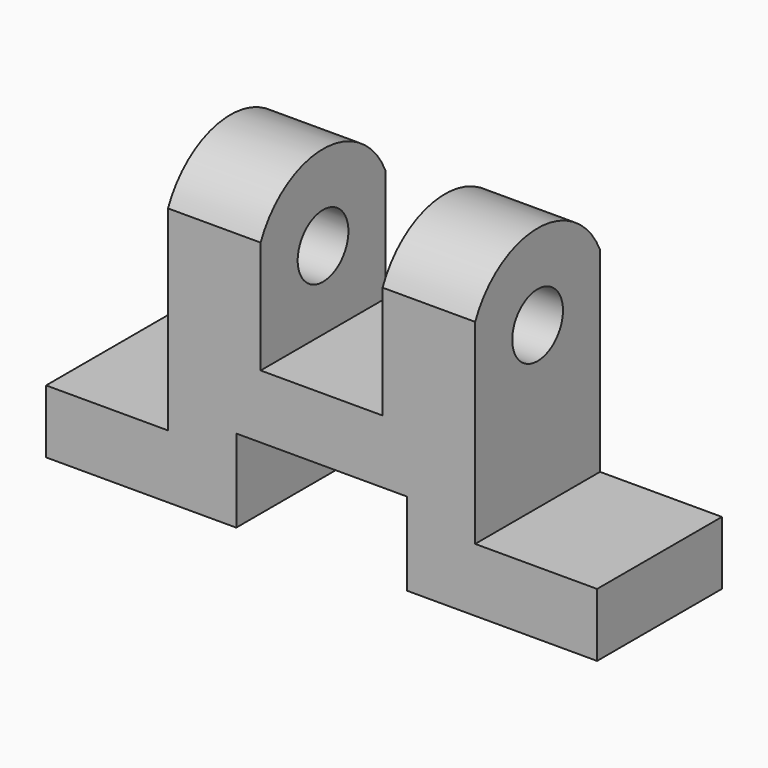
from build123d import *

# Parameters (mm, degrees)
F0_W     = 113
F0_H     = 64
F1_DEPTH = 32
F2_R     = 6.5
F3_DEPTH = 113.001
F4_W     = 35
F4_H     = 17
F4_W_2   = 25
F4_H_2   = 51
F4_H_3   = 34
F5_DEPTH = 32.001


with BuildPart() as f1:
    # F0 (on Front) → F1 (new body)
    with BuildSketch(Plane.XZ):
        with Locations((0, 32)):
            Rectangle(F0_W, F0_H)
    extrude(amount=-F1_DEPTH)

    # F2 (on face) → F3 (cut, through all)
    with BuildSketch(Plane.YZ.offset(56.5)):
        with Locations((16, 46)):
            Circle(F2_R)
        with BuildLine():
            Line((0, 64), (0, 53.088723))
            ThreePointArc((0, 53.088723), (16, 63.5), (32, 53.088723))
            Line((32, 53.088723), (32, 64))
            Line((32, 64), (0, 64))
        make_face()
    extrude(amount=-F3_DEPTH, mode=Mode.SUBTRACT)

    # F4 (on Front) → F5 (cut, through all)
    with BuildSketch(Plane.XZ):
        with Locations((0, 8.5)):
            Rectangle(F4_W, F4_H)
        with Locations((-44, 38.5)):
            Rectangle(F4_W_2, F4_H_2)
        with Locations((44, 38.5)):
            Rectangle(F4_W_2, F4_H_2)
        with Locations((0, 47)):
            Rectangle(F4_W_2, F4_H_3)
    extrude(amount=-F5_DEPTH, mode=Mode.SUBTRACT)


solid = f1.part
